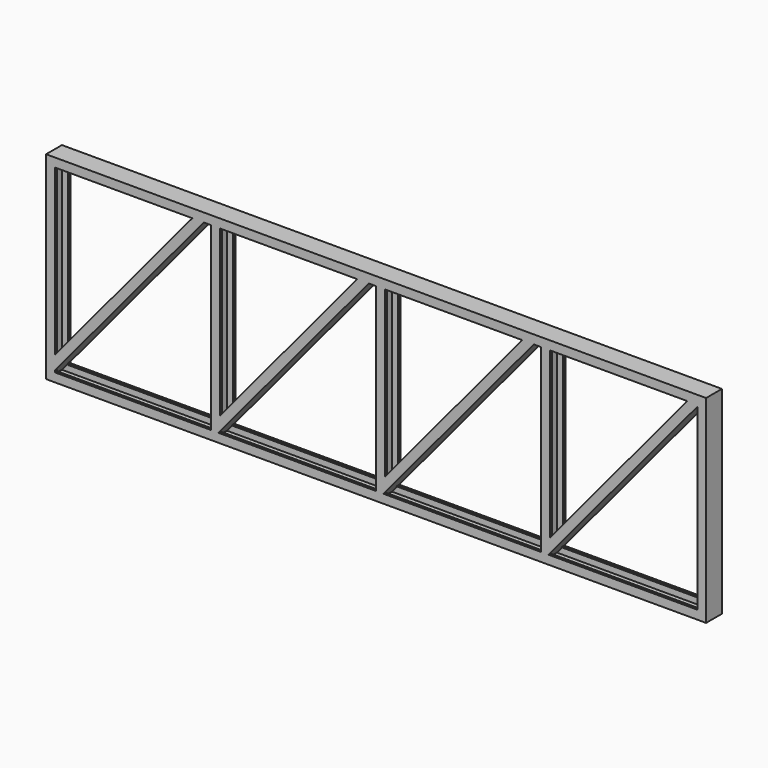
from build123d import *

# Parameters (mm, degrees)
F9_W           = 97.1534569561
F9_H           = 118.8586831093
F10_DEPTH      = 3030.7298511839
F10_DEPTH_BACK = 25
F11_W          = 40.332518518
F11_H          = 90.9383651614
F12_DEPTH      = 900.001


with BuildPart() as f2:
    # F2: sweep along a path in F0
    with BuildLine(Plane.XZ) as f2_path:
        Line((0, 0), (3000, 0))
        Line((3000, 0), (3000, 900))
        Line((3000, 900), (0, 900))
        Line((0, 900), (0, 0))
    # F1 (on Right) → F2 (sweep)
    with BuildSketch(Plane.YZ):
        Polygon((-45, 0), (0, 0), (45, 0), (45, 40), (33, 40), (33, 37), (42, 37), (42, 3), (0, 3), (-42, 3), (-42, 37), (-33, 37), (-33, 40), (-45, 40), align=None)
    sweep(path=f2_path.line, transition=Transition.RIGHT)

    # F8: sweep along a path in F3
    with BuildLine(Plane.XZ) as f8_path:
        Line((0, 0), (750, 900))
        Line((750, 900), (750, 0))
        Line((750, 0), (1500, 900))
        Line((1500, 900), (1500, 0))
        Line((1500, 0), (2250, 900))
        Line((2250, 900), (2250, 0))
        Line((2250, 0), (3000, 900))
    # F7 (on offset) → F8 (sweep)
    with BuildSketch(Plane(origin=(48.7180328145, 0, 58.4616393774), x_dir=(0.7682212796, 0, -0.6401843997), z_dir=(0.6401843997, 0, 0.7682212796))):
        Polygon((0, -45), (0, 0), (0, 45), (-40, 45), (-40, 33), (-37, 33), (-37, 42), (-3, 42), (-3, 0), (-3, -42), (-37, -42), (-37, -33), (-40, -33), (-40, -45), align=None)
    sweep(path=f8_path.line, transition=Transition.RIGHT)

    # F9 (on face) → F10 (cut, two sides)
    with BuildSketch(Plane.YZ.offset(3000)) as f10_sk:
        with Locations((3.5767284781, 959.4293415546)):
            Rectangle(F9_W, F9_H)
    extrude(amount=-F10_DEPTH, mode=Mode.SUBTRACT)
    extrude(f10_sk.sketch, amount=F10_DEPTH_BACK, mode=Mode.SUBTRACT)

    # F11 (on face) → F12 (cut, through all)
    with BuildSketch(Plane(origin=(0, 0, 0), x_dir=(1, 0, 0), z_dir=(0, 0, -1))):
        with Locations((-20.166259259, -0.4691825807)):
            Rectangle(F11_W, F11_H)
    extrude(amount=-F12_DEPTH, mode=Mode.SUBTRACT)


solid = f2.part
